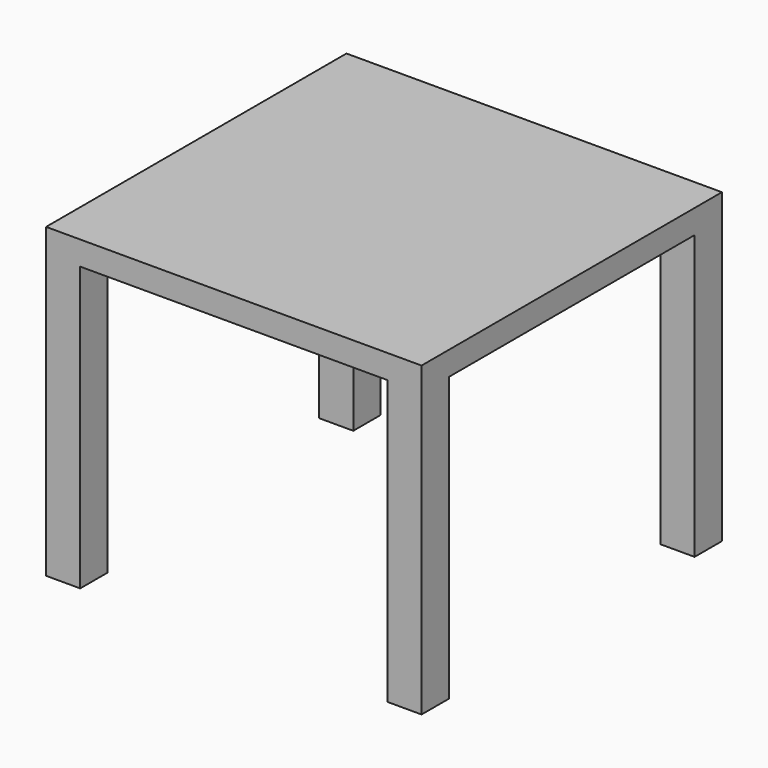
from build123d import *

# Parameters (mm, degrees)
F0_W     = 550
F0_H     = 550
F1_DEPTH = 35
F2_W     = 50
F2_H     = 50
F3_DEPTH = 450


with BuildPart() as f1:
    # F0 (on Top) → F1 (new body)
    with BuildSketch(Plane.XY):
        Rectangle(F0_W, F0_H)
    extrude(amount=-F1_DEPTH)

    # F2 (on Top) → F3 (join)
    with BuildSketch(Plane.XY):
        with Locations((250, 250)):
            Rectangle(F2_W, F2_H)
        with Locations((250, -250)):
            Rectangle(F2_W, F2_H)
        with Locations((-250, 250)):
            Rectangle(F2_W, F2_H)
        with Locations((-250, -250)):
            Rectangle(F2_W, F2_H)
    extrude(amount=-F3_DEPTH)


solid = f1.part
